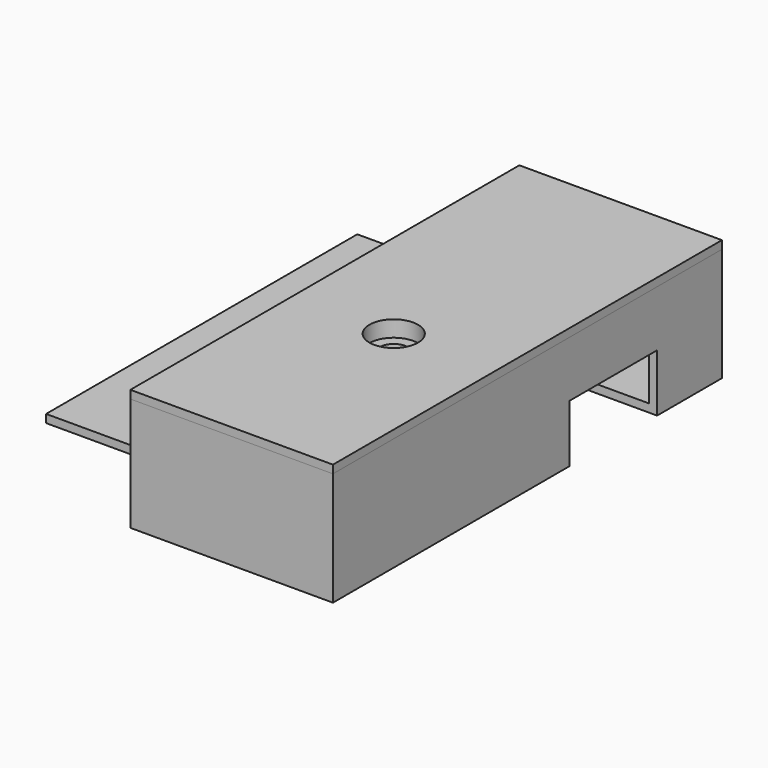
from build123d import *

# Parameters (mm, degrees)
SKETCH_W        = 25
SKETCH_H        = 60
PAD_DEPTH       = 14
SKETCH001_W     = 23
SKETCH001_H     = 58
POCKET_DEPTH    = 13
SKETCH002_W     = 13
SKETCH002_H     = 2.5
POCKET001_DEPTH = 5
SKETCH003_R     = 4.1
POCKET002_DEPTH = 0.2
SKETCH004_W     = 13.5
SKETCH004_H     = 7.1
POCKET003_DEPTH = 10
SKETCH005_R     = 5
PAD001_DEPTH    = 5
SKETCH006_R     = 1.7
POCKET004_DEPTH = 6.001
POCKET005_DEPTH = 4
SKETCH013_W     = 20
SKETCH013_H     = 1
PAD005_DEPTH    = 48
FILLET_R        = 1
SKETCH008_W     = 25
SKETCH008_H     = 60
PAD002_DEPTH    = 1
SKETCH009_W     = 22.8
SKETCH009_H     = 2
SKETCH009_W_2   = 2
SKETCH009_H_2   = 29.9
PAD003_DEPTH    = 3
SKETCH010_R     = 4
PAD004_DEPTH    = 4
SKETCH011_R     = 3
POCKET006_DEPTH = 2
SKETCH012_R     = 1.7
POCKET007_DEPTH = 5


with BuildPart() as bottom:
    # Sketch → Pad (new body)
    with BuildSketch(Plane.XY):
        Rectangle(SKETCH_W, SKETCH_H)
    extrude(amount=PAD_DEPTH)

    # Sketch001 (on Face6 of Pad) → Pocket (cut)
    with BuildSketch(Plane.XY.offset(14)):
        Rectangle(SKETCH001_W, SKETCH001_H)
    extrude(amount=-POCKET_DEPTH, mode=Mode.SUBTRACT)

    # Sketch002 (on Face7 of Pocket) → Pocket001 (cut)
    with BuildSketch(Plane.YZ.offset(-11.5)):
        with Locations((11.5, 3.45)):
            Rectangle(SKETCH002_W, SKETCH002_H)
    extrude(amount=-POCKET001_DEPTH, mode=Mode.SUBTRACT)

    # Sketch003 (on Face11 of Pocket001) → Pocket002 (cut)
    with BuildSketch(Plane.YZ.offset(-11.5)):
        with Locations((-3.2, 5.2)):
            Circle(SKETCH003_R)
        with Locations((-21.2, 5.2)):
            Circle(SKETCH003_R)
    extrude(amount=-POCKET002_DEPTH, mode=Mode.SUBTRACT)

    # Sketch004 (on Face3 of Pocket002) → Pocket003 (cut)
    with BuildSketch(Plane.YZ.offset(12.5)):
        with Locations((13.25, 3.55)):
            Rectangle(SKETCH004_W, SKETCH004_H)
    extrude(amount=-POCKET003_DEPTH, mode=Mode.SUBTRACT)

    # Sketch005 (on Face19 of Pocket003) → Pad001 (join)
    with BuildSketch(Plane.XY.offset(1)):
        with Locations((0, -5)):
            Circle(SKETCH005_R)
    extrude(amount=PAD001_DEPTH)

    # Sketch006 (on Face25 of Pad001) → Pocket004 (cut, through all)
    with BuildSketch(Plane.XY.offset(6)):
        with Locations((0, -5)):
            Circle(SKETCH006_R)
    extrude(amount=-POCKET004_DEPTH, mode=Mode.SUBTRACT)

    # Sketch007 (on Face4 of Pocket004) → Pocket005 (cut)
    with BuildSketch(Plane(origin=(0, 0, 0), x_dir=(1, 0, 0), z_dir=(0, 0, -1))):
        Polygon((2.72798, 6.575), (0, 8.15), (-2.72798, 6.575), (-2.72798, 3.425), (0, 1.85), (2.72798, 3.425), align=None)
    extrude(amount=-POCKET005_DEPTH, mode=Mode.SUBTRACT)

    # Sketch013 (on Face6 of Pocket005) → Pad005 (join)
    with BuildSketch(Plane(origin=(0, 30, 0), x_dir=(-1, 0, 0), z_dir=(0, 1, 0))):
        with Locations((22.5, 0.5)):
            Rectangle(SKETCH013_W, SKETCH013_H)
    extrude(amount=-PAD005_DEPTH)

    # Fillet
    fillet_edges = [bottom.edges().sort_by_distance(p)[0] for p in [
        (-12.5, 6, 1),
    ]]
    fillet(fillet_edges, radius=FILLET_R)


with BuildPart() as top:
    # Sketch008 → Pad002 (new body)
    with BuildSketch(Plane.XY.offset(14)):
        Rectangle(SKETCH008_W, SKETCH008_H)
    extrude(amount=PAD002_DEPTH)

    # Sketch009 (on Face5 of Pad002) → Pad003 (join)
    with BuildSketch(Plane(origin=(0, 0, 14), x_dir=(1, 0, 0), z_dir=(0, 0, -1))):
        with Locations((0, 27.9)):
            Rectangle(SKETCH009_W, SKETCH009_H)
        with Locations((10.4, 9.95)):
            Rectangle(SKETCH009_W_2, SKETCH009_H_2)
    extrude(amount=PAD003_DEPTH)

    # Sketch010 (on Face4 of Pad003) → Pad004 (join)
    with BuildSketch(Plane(origin=(0, 0, 14), x_dir=(1, 0, 0), z_dir=(0, 0, -1))):
        with Locations((0, 5)):
            Circle(SKETCH010_R)
    extrude(amount=PAD004_DEPTH)

    # Sketch011 (on Face5 of Pad004) → Pocket006 (cut)
    with BuildSketch(Plane.XY.offset(15)):
        with Locations((0, -5)):
            Circle(SKETCH011_R)
    extrude(amount=-POCKET006_DEPTH, mode=Mode.SUBTRACT)

    # Sketch012 (on Face20 of Pocket006) → Pocket007 (cut)
    with BuildSketch(Plane.XY.offset(13)):
        with Locations((0, -5)):
            Circle(SKETCH012_R)
    extrude(amount=-POCKET007_DEPTH, mode=Mode.SUBTRACT)


solid = Compound([bottom.part, top.part])
